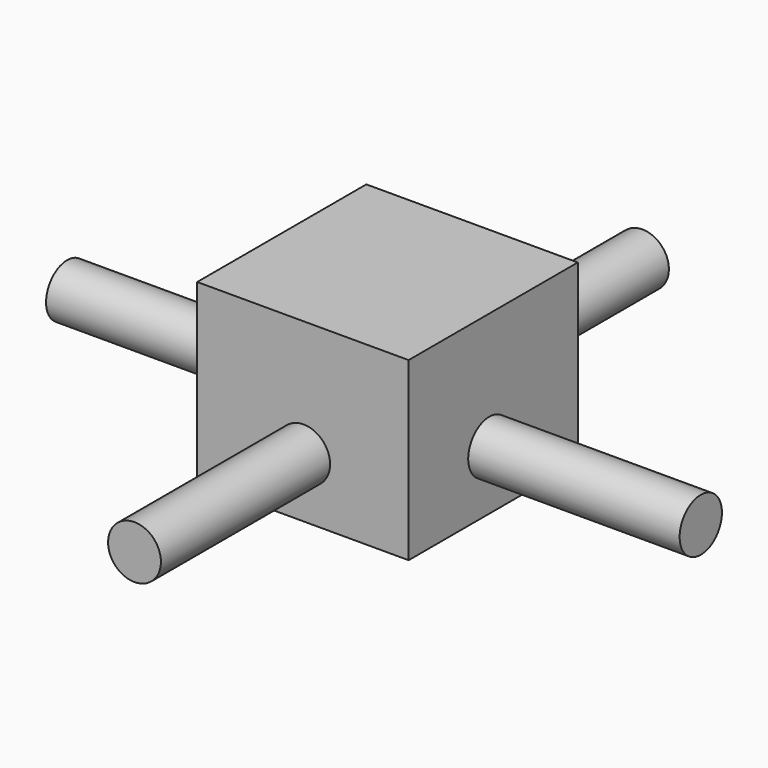
from build123d import *

# Parameters (mm, degrees)
F0_W     = 609.6
F0_H     = 609.6
F1_DEPTH = 508
F2_R     = 76.2
F3_DEPTH = 609.6
F4_R     = 76.2
F5_DEPTH = 609.6
F6_R     = 76.2
F7_DEPTH = 609.6
F8_R     = 76.2
F9_DEPTH = 609.6


with BuildPart() as f1:
    # F0 (on Top) → F1 (new body)
    with BuildSketch(Plane.XY):
        with Locations((207.229508, 194.311477)):
            Rectangle(F0_W, F0_H)
    extrude(amount=F1_DEPTH)

    # F2 (on face) → F3 (join)
    with BuildSketch(Plane.XZ.offset(110.488523)):
        with Locations((209.300384, 170.041427)):
            Circle(F2_R)
    extrude(amount=F3_DEPTH)

    # F4 (on face) → F5 (join)
    with BuildSketch(Plane(origin=(-97.570492, 0, 0), x_dir=(0, -1, 0), z_dir=(-1, 0, 0))):
        with Locations((-183.056265, 169.941157)):
            Circle(F4_R)
    extrude(amount=F5_DEPTH)

    # F6 (on face) → F7 (join)
    with BuildSketch(Plane(origin=(0, 499.111477, 0), x_dir=(-1, 0, 0), z_dir=(0, 1, 0))):
        with Locations((-210.818216, 169.941157)):
            Circle(F6_R)
    extrude(amount=F7_DEPTH)

    # F8 (on face) → F9 (join)
    with BuildSketch(Plane.YZ.offset(512.029508)):
        with Locations((180.434614, 169.941157)):
            Circle(F8_R)
    extrude(amount=F9_DEPTH)


solid = f1.part
